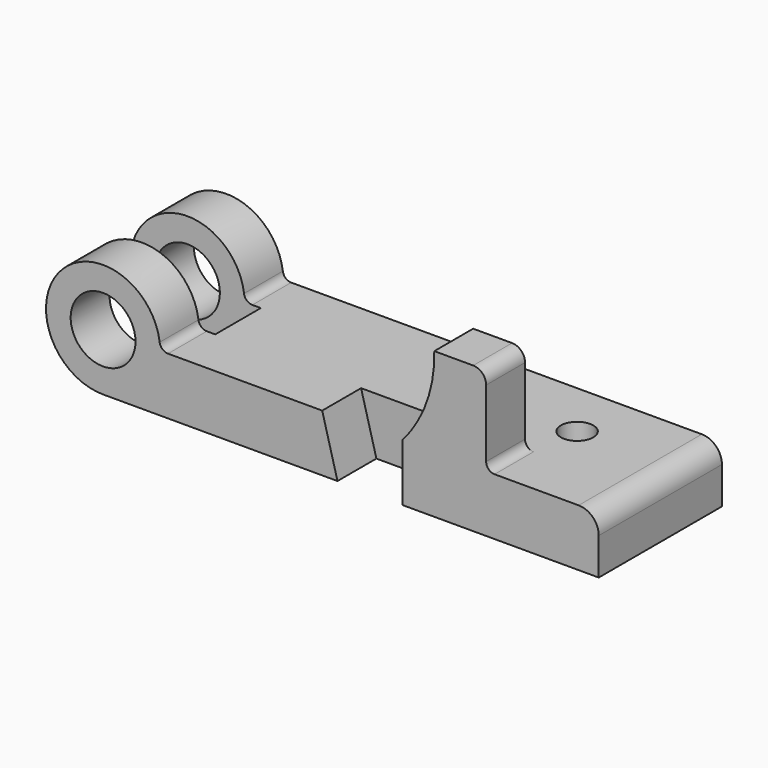
from build123d import *

# Parameters (mm, degrees)
F0_R      = 12.7
F1_DEPTH  = 60.325
F2_R      = 3.302
F3_W      = 57.4852150798
F3_H      = 22.3266
F4_DEPTH  = 57.151
F3_W_2    = 22.8455264698
F3_H_2    = 41.275
F3_W_3    = 20.32
F3_W_4    = 13.4658747114
F5_DEPTH  = 34.798
F6_R      = 6.35
F7_DEPTH  = 22.353
F8_R      = 5.08
F9_R      = 7.874
F11_DEPTH = 19.05


with BuildPart() as f1:
    # F0 (on Front) → F1 (new body)
    with BuildSketch(Plane.XZ):
        with BuildLine():
            Line((117.2464, 0), (22.352, 0))
            ThreePointArc((22.352, 0), (-15.8052507731, 15.8052507731), (0, -22.352))
            Line((0, -22.352), (194.2084, -22.352))
            Line((194.2084, -22.352), (194.2084, 0))
            Line((194.2084, 0), (150.0886, 0))
            Line((150.0886, 0), (150.0886, 34.798))
            Line((150.0886, 34.798), (129.7686, 34.798))
            ThreePointArc((129.7686, 34.798), (126.786603396, 16.2190014787), (117.2464, 0))
        make_face()
        Circle(F0_R, mode=Mode.SUBTRACT)
    extrude(amount=F1_DEPTH)

    # F2
    f2_edges = [f1.edges().sort_by_distance(p)[0] for p in [
        (22.352, -30.1625, 0),
        (150.0886, -30.1625, 0),
    ]]
    fillet(f2_edges, radius=F2_R)

    # F3 (on face) → F4 (cut, through all)
    with BuildSketch(Plane.XY.offset(34.798)):
        with Locations((0, -30.1625)):
            Rectangle(F3_W, F3_H)
    extrude(amount=-F4_DEPTH, mode=Mode.SUBTRACT)

    # F3 (on face) → F5 (cut, through all)
    with BuildSketch(Plane.XY.offset(34.798)):
        with Locations((118.3458367651, -20.6375)):
            Rectangle(F3_W_2, F3_H_2)
        with Locations((139.9286, -20.6375)):
            Rectangle(F3_W_3, F3_H_2)
        with Locations((156.8215373557, -20.6375)):
            Rectangle(F3_W_4, F3_H_2)
    extrude(amount=-F5_DEPTH, mode=Mode.SUBTRACT)

    # F6 (on face) → F7 (cut, through all)
    with BuildSketch(Plane.XY):
        with Locations((155.3464, -22.352)):
            Circle(F6_R)
    extrude(amount=-F7_DEPTH, mode=Mode.SUBTRACT)

    # F8
    f8_edges = [f1.edges().sort_by_distance(p)[0] for p in [
        (150.0886, -50.8, 34.798),
    ]]
    fillet(f8_edges, radius=F8_R)

    # F9
    f9_edges = [f1.edges().sort_by_distance(p)[0] for p in [
        (194.2084, -30.1625, 0),
    ]]
    fillet(f9_edges, radius=F9_R)

    # F10 (on face) → F11 (cut)
    with BuildSketch(Plane.XZ.offset(60.325)):
        Polygon((117.2464, -22.352), (117.2464, 0), (85.852, 0), (91.8464, -22.352), align=None)
    extrude(amount=-F11_DEPTH, mode=Mode.SUBTRACT)


solid = f1.part
